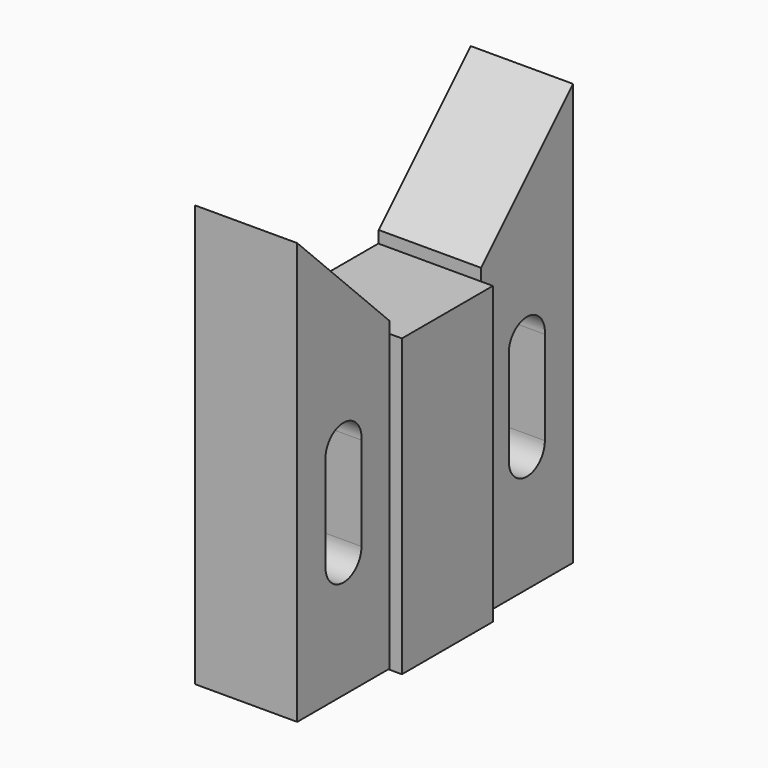
from build123d import *

# Parameters (mm, degrees)
F0_W     = 28.448
F0_H     = 28.241855
F1_DEPTH = 36.703
F2_W     = 28.575
F2_H     = 6.35
F3_DEPTH = 25.4


with BuildPart() as f1:
    # F0 (on Top) → F1 (new body, symmetric)
    with BuildSketch(Plane.XY):
        with Locations((14.303463, -0.103073)):
            Rectangle(F0_W, F0_H)
    extrude(amount=F1_DEPTH, both=True)

    # F2 (on Right) → F3 (join)
    with BuildSketch(Plane.YZ):
        Polygon((-42.799, -30.162666), (-14.224, -30.162666), (-14.224, 39.560334), (-25.273, 50.609334), (-25.273, 32.120805), (-42.799, 32.120805), align=None)
        with BuildLine():
            ThreePointArc((-22.86, -6.286666), (-28.448, -11.874666), (-34.036, -6.286666))
            Line((-34.036, -6.286666), (-34.036, 16.970864))
            ThreePointArc((-34.036, 16.970864), (-28.448, 23.052092), (-22.86, 16.970864))
            Line((-22.86, 16.970864), (-22.86, -6.286666))
        make_face(mode=Mode.SUBTRACT)
        Polygon((-42.799, 68.135334), (-42.799, 32.120805), (-25.273, 32.120805), (-25.273, 50.609334), align=None)
        with Locations((-28.5115, -33.337666)):
            Rectangle(F2_W, F2_H)
        Polygon((14.224, -30.162666), (42.799, -30.162666), (42.799, 32.120805), (25.273, 32.120805), (25.273, 50.609334), (14.224, 39.560334), align=None)
        with BuildLine():
            Line((22.86, -6.286666), (22.86, 16.970864))
            ThreePointArc((22.86, 16.970864), (28.448, 23.052092), (34.036, 16.970864))
            Line((34.036, 16.970864), (34.036, -6.286666))
            ThreePointArc((34.036, -6.286666), (28.448, -11.874666), (22.86, -6.286666))
        make_face(mode=Mode.SUBTRACT)
        with Locations((28.5115, -33.337666)):
            Rectangle(F2_W, F2_H)
        Polygon((25.273, 32.120805), (42.799, 32.120805), (42.799, 68.135334), (25.273, 50.609334), align=None)
    extrude(amount=F3_DEPTH)


solid = f1.part
